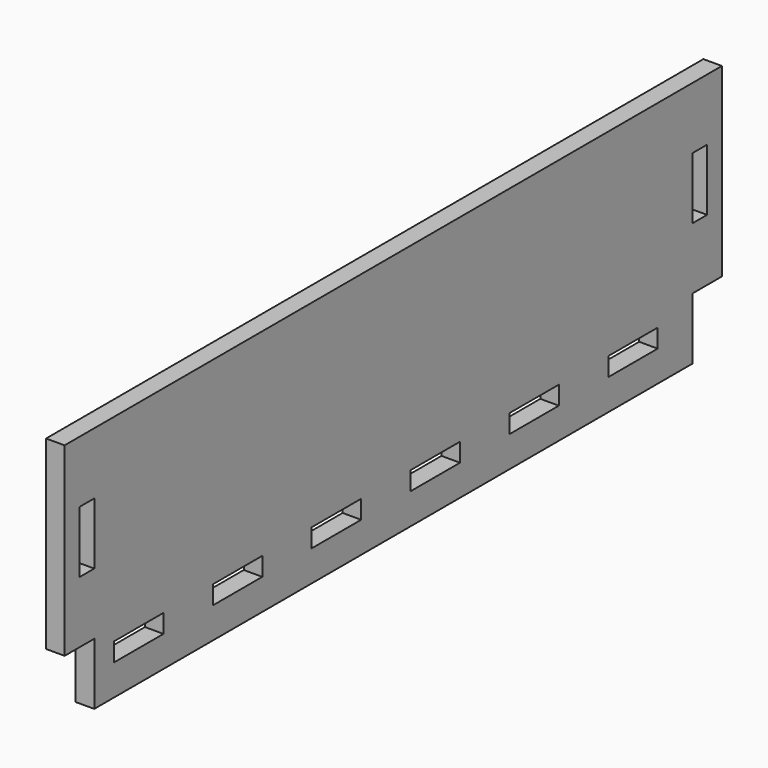
from build123d import *

# Parameters (mm, degrees)
PAD_DEPTH       = 3
SKETCH001_W     = 10
SKETCH001_H     = 3
POCKET_DEPTH    = 3.001
SKETCH002_W     = 3
SKETCH002_H     = 10
POCKET001_DEPTH = 280.835483


with BuildPart() as part:
    # Sketch → Pad (new body)
    with BuildSketch(Plane.YZ):
        Polygon((-60.5, 0), (60.5, 0), (60.5, 10), (66.5, 10), (66.5, 40), (-66.5, 40), (-66.5, 10), (-60.5, 10), align=None)
    extrude(amount=PAD_DEPTH)

    # Sketch001 (on Face10 of Pad) → Pocket (cut, through all)
    with BuildSketch(Plane.YZ.offset(3)):
        with Locations((-51.5, 6.5)):
            Rectangle(SKETCH001_W, SKETCH001_H)
        with Locations((-31.5, 6.5)):
            Rectangle(SKETCH001_W, SKETCH001_H)
        with Locations((-11.5, 6.5)):
            Rectangle(SKETCH001_W, SKETCH001_H)
        with Locations((8.5, 6.5)):
            Rectangle(SKETCH001_W, SKETCH001_H)
        with Locations((28.5, 6.5)):
            Rectangle(SKETCH001_W, SKETCH001_H)
        with Locations((48.5, 6.5)):
            Rectangle(SKETCH001_W, SKETCH001_H)
    extrude(amount=-POCKET_DEPTH, mode=Mode.SUBTRACT)

    # Sketch002 (on Face5 of Pocket) → Pocket001 (cut, through all)
    with BuildSketch(Plane.YZ.offset(3)):
        with Locations((-62, 25)):
            Rectangle(SKETCH002_W, SKETCH002_H)
    pocket001 = extrude(amount=-POCKET001_DEPTH, mode=Mode.SUBTRACT)

    # Mirrored: Pocket001 across Sketch002 V_Axis
    add(pocket001.mirror(Plane(origin=(3, 0, 0), x_dir=(1, 0, 0), z_dir=(0, 1, 0))), mode=Mode.SUBTRACT)


solid = part.part
